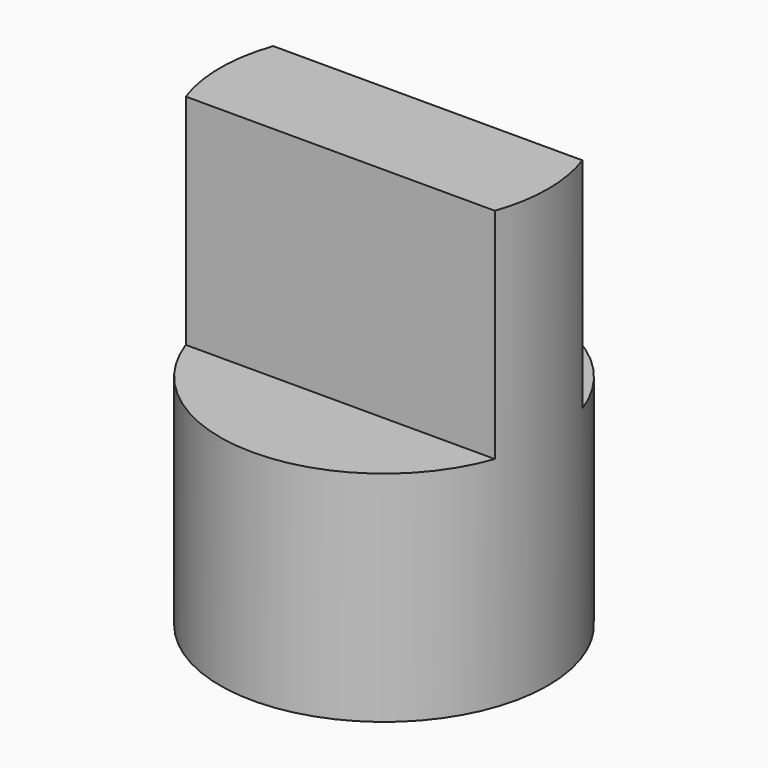
from build123d import *

# Parameters (mm, degrees)
F0_R     = 30
F1_DEPTH = 40
F3_DEPTH = 40


with BuildPart() as f1:
    # F0 (on Top) → F1 (new body, symmetric)
    with BuildSketch(Plane.XY):
        Circle(F0_R)
    extrude(amount=F1_DEPTH, both=True)

    # F2 (on face) → F3 (cut)
    with BuildSketch(Plane.XY.offset(40)):
        with BuildLine():
            Line((-28.284271, 10), (28.284271, 10))
            ThreePointArc((28.284271, 10), (0, 30), (-28.284271, 10))
        make_face()
        with BuildLine():
            ThreePointArc((-28.284271, -10), (0, -30), (28.284271, -10))
            Line((28.284271, -10), (-28.284271, -10))
        make_face()
    extrude(amount=-F3_DEPTH, mode=Mode.SUBTRACT)


solid = f1.part
